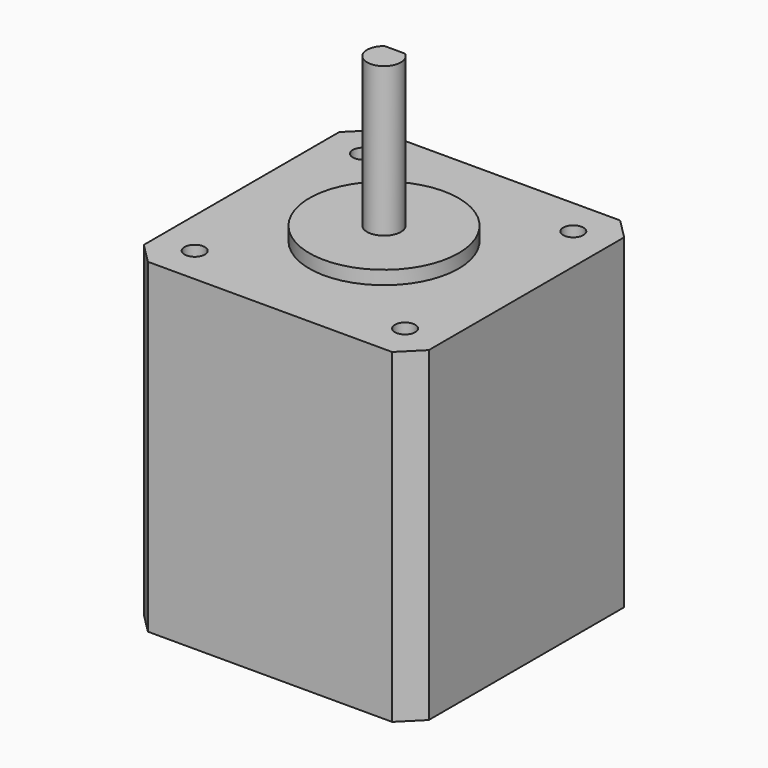
from build123d import *

# Parameters (mm, degrees)
F0_W     = 42
F0_H     = 42
F1_DEPTH = 48
F2_R     = 1.5
F3_DEPTH = 10
F2_R_2   = 11
F4_DEPTH = 2
F5_R     = 2.5
F6_DEPTH = 22
F8_DEPTH = 15
F9_SIZE  = 3


with BuildPart() as f1:
    # F0 (on Top) → F1 (new body)
    with BuildSketch(Plane.XY):
        Rectangle(F0_W, F0_H)
    extrude(amount=F1_DEPTH)

    # F2 (on face) → F3 (cut)
    with BuildSketch(Plane.XY.offset(48)):
        with Locations((-15.5, -15.5)):
            Circle(F2_R)
        with Locations((-15.5, 15.5)):
            Circle(F2_R)
        with Locations((15.5, 15.5)):
            Circle(F2_R)
        with Locations((15.5, -15.5)):
            Circle(F2_R)
    extrude(amount=-F3_DEPTH, mode=Mode.SUBTRACT)

    # F2 (on face) → F4 (join)
    with BuildSketch(Plane.XY.offset(48)):
        Circle(F2_R_2)
    extrude(amount=F4_DEPTH)

    # F5 (on face) → F6 (join)
    with BuildSketch(Plane.XY.offset(50)):
        Circle(F5_R)
    extrude(amount=F6_DEPTH)

    # F7 (on face) → F8 (cut)
    with BuildSketch(Plane.XY.offset(72)):
        with BuildLine():
            ThreePointArc((1.5, 2), (0, 2.5), (-1.5, 2))
            Line((-1.5, 2), (1.5, 2))
        make_face()
    extrude(amount=-F8_DEPTH, mode=Mode.SUBTRACT)

    # F9
    f9_edges = [f1.edges().sort_by_distance(p)[0] for p in [
        (21, -21, 24),
        (21, 21, 24),
        (-21, -21, 24),
        (-21, 21, 24),
    ]]
    chamfer(f9_edges, length=F9_SIZE)


solid = f1.part
